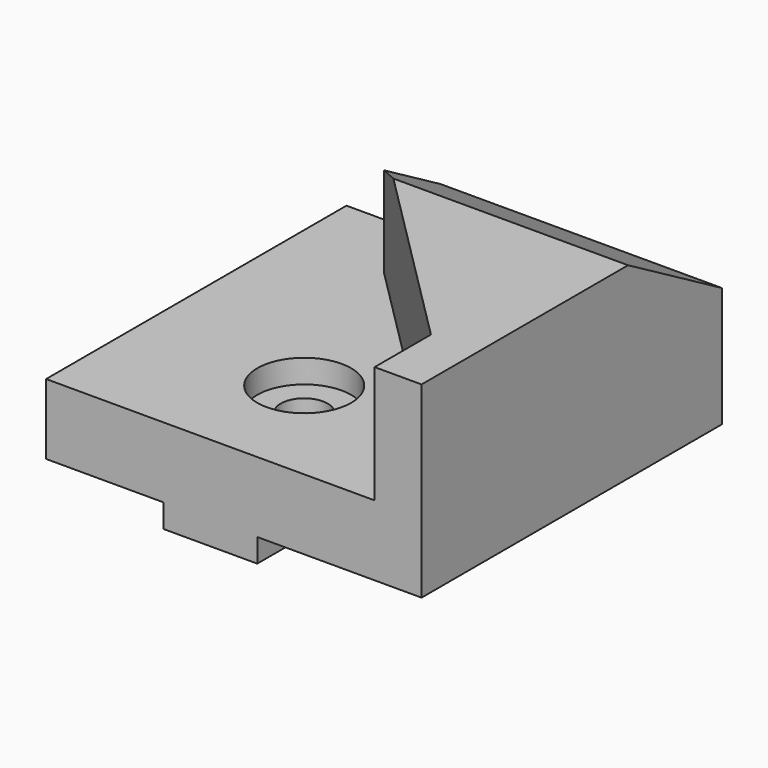
from build123d import *

# Parameters (mm, degrees)
F1_DEPTH  = 80
F2_W      = 10
F2_H      = 25
F3_DEPTH  = 80
F5_DEPTH  = 25
F7_DEPTH  = 25
F9_DEPTH  = 80.001
F10_R     = 10
F11_DEPTH = 5
F12_R     = 5
F13_DEPTH = 25


with BuildPart() as f1:
    # F0 (on Front) → F1 (new body)
    with BuildSketch(Plane.XZ):
        Polygon((0, -15), (0, 0), (-80, 0), (-80, -15), (-55, -15), (-55, -20), (-35, -20), (-35, -15), align=None)
    extrude(amount=F1_DEPTH)

    # F2 (on face) → F3 (join)
    with BuildSketch(Plane.XZ.offset(80)):
        with Locations((-5, 12.5)):
            Rectangle(F2_W, F2_H)
    extrude(amount=-F3_DEPTH)

    # F4 (on face) → F5 (join, through all)
    with BuildSketch(Plane.XY.offset(25)):
        Polygon((-50, -25), (-10, -65), (-10, -25), align=None)
    extrude(amount=-F5_DEPTH)

    # F6 (on face) → F7 (join)
    with BuildSketch(Plane.XY):
        Polygon((-60, -15), (-50, -25), (-10, -25), (-10, 0), (-60, 0), align=None)
    extrude(amount=F7_DEPTH)

    # F8 (on face) → F9 (cut, through all)
    with BuildSketch(Plane.YZ):
        Polygon((0, 10.566243), (0, 25), (-25, 25), align=None)
    extrude(amount=-F9_DEPTH, mode=Mode.SUBTRACT)

    # F10 (on face) → F11 (cut)
    with BuildSketch(Plane.XY):
        with Locations((-45, -55)):
            Circle(F10_R)
    extrude(amount=-F11_DEPTH, mode=Mode.SUBTRACT)

    # F12 (on face) → F13 (cut)
    with BuildSketch(Plane.XY.offset(-5)):
        with Locations((-45, -55)):
            Circle(F12_R)
    extrude(amount=-F13_DEPTH, mode=Mode.SUBTRACT)


solid = f1.part
